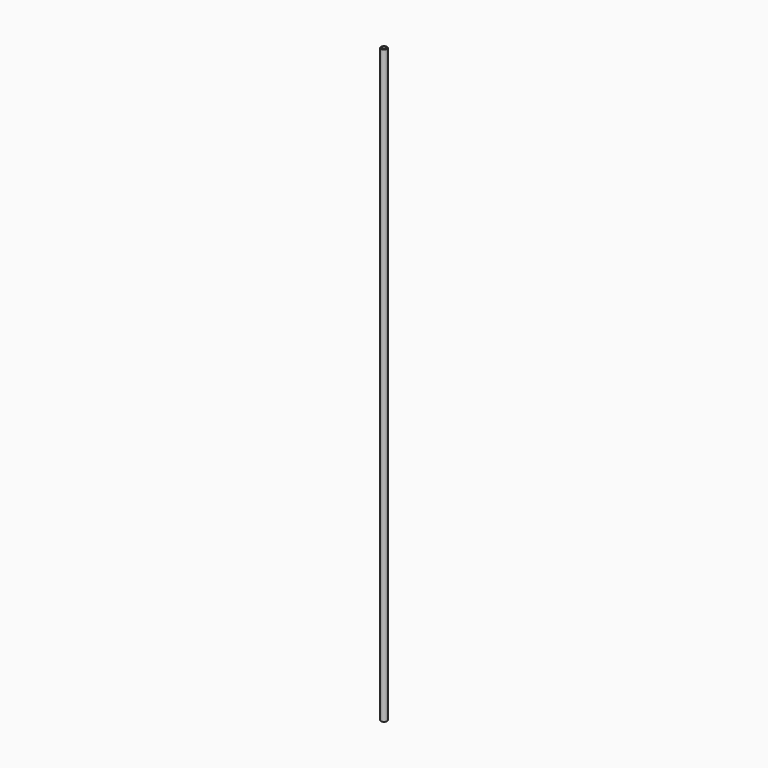
from build123d import *

# Parameters (mm, degrees)
SKETCH_R   = 1.5
SKETCH_R_2 = 1
PAD_DEPTH  = 293


with BuildPart() as part:
    # Sketch → Pad (new body)
    with BuildSketch(Plane.XY):
        Circle(SKETCH_R)
        Circle(SKETCH_R_2, mode=Mode.SUBTRACT)
    extrude(amount=PAD_DEPTH)


solid = part.part
